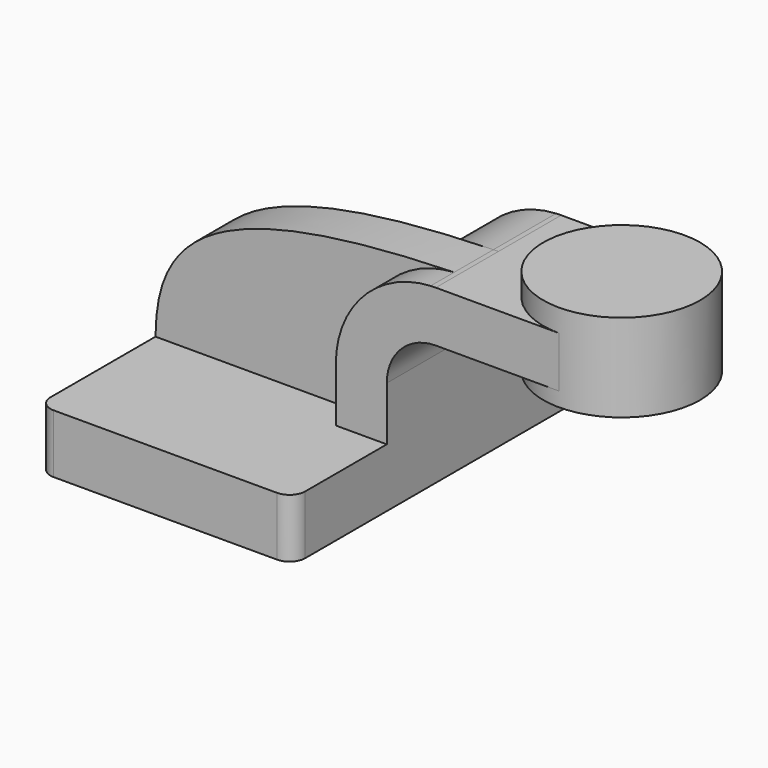
from build123d import *

# Parameters (mm, degrees)
F1_DEPTH = 63.5
F0_W     = 25.4
F0_H     = 16.51
F2_DEPTH = 25.4
F3_DEPTH = 15.875
F5_R     = 5.08


with BuildPart() as f1:
    # F0 (on Front) → F1 (new body, symmetric)
    with BuildSketch(Plane.XZ):
        Polygon((-41.275, -9.525), (41.275, -9.525), (41.275, 9.525), (24.765, 9.525), (-41.275, 9.525), align=None)
    extrude(amount=F1_DEPTH, both=True)

    # F0 (on Front) → F2 (join, symmetric)
    with BuildSketch(Plane.XZ):
        with BuildLine():
            Line((24.765, 9.525), (41.275, 9.525))
            Line((41.275, 9.525), (41.275, 27.0002))
            ThreePointArc((41.275, 27.0002), (45.9246798487, 38.2255201513), (57.15, 42.8752))
            Line((57.15, 42.8752), (71.6676590706, 42.8752))
            Line((71.6676590706, 42.8752), (71.6676590706, 59.3852))
            Line((71.6676590706, 59.3852), (57.15, 59.3852))
            add(Edge.make_bspline(
                [(55.4911539535, 59.3426868369), (56.0411228755, 59.3576141574), (56.5940666192, 59.3717855904), (57.15, 59.3852)],
                knots=[109.5705582986, 109.5705582986, 109.5705582986, 109.5705582986, 110.3336764956, 110.3336764956, 110.3336764956, 110.3336764956], degree=3))
            ThreePointArc((55.4911539535, 59.3426868369), (33.6711802446, 49.3056533218), (24.765, 27.0002))
            Line((24.765, 27.0002), (24.765, 9.525))
        make_face()
        with Locations((84.3676590706, 51.1302)):
            Rectangle(F0_W, F0_H)
    extrude(amount=F2_DEPTH, both=True)

    # F0 (on Front) → F3 (join)
    with BuildSketch(Plane.XZ):
        with BuildLine():
            add(Edge.make_bspline(
                [(-41.275, 9.525), (-41.1119862011, 39.4727109484), (-23.4748595098, 57.1993821099), (55.4911539535, 59.3426868369)],
                knots=[0, 0, 0, 0, 109.5705582986, 109.5705582986, 109.5705582986, 109.5705582986], degree=3))
            Line((-41.275, 9.525), (24.765, 9.525))
            Line((24.765, 9.525), (24.765, 27.0002))
            ThreePointArc((24.765, 27.0002), (33.6711802446, 49.3056533218), (55.4911539535, 59.3426868369))
        make_face()
    extrude(amount=F3_DEPTH)

    # F0 (on Front) → F4 (revolve)
    with BuildSketch(Plane.XZ):
        Polygon((97.0676590706, 59.3852), (97.0676590706, 42.8752), (97.0676590706, 38.2255201513), (122.4676590706, 38.2255201513), (122.4676590706, 66.675), (97.0676590706, 66.675), align=None)
    revolve(axis=Axis((97.0676590706, 0, 52.4502600757), (0, 0, 1)))

    # F5
    f5_edges = [f1.edges().sort_by_distance(p)[0] for p in [
        (41.275, -63.5, 0),
        (-41.275, -63.5, 0),
        (41.275, 63.5, 0),
        (-41.275, 63.5, 0),
    ]]
    fillet(f5_edges, radius=F5_R)


solid = f1.part
